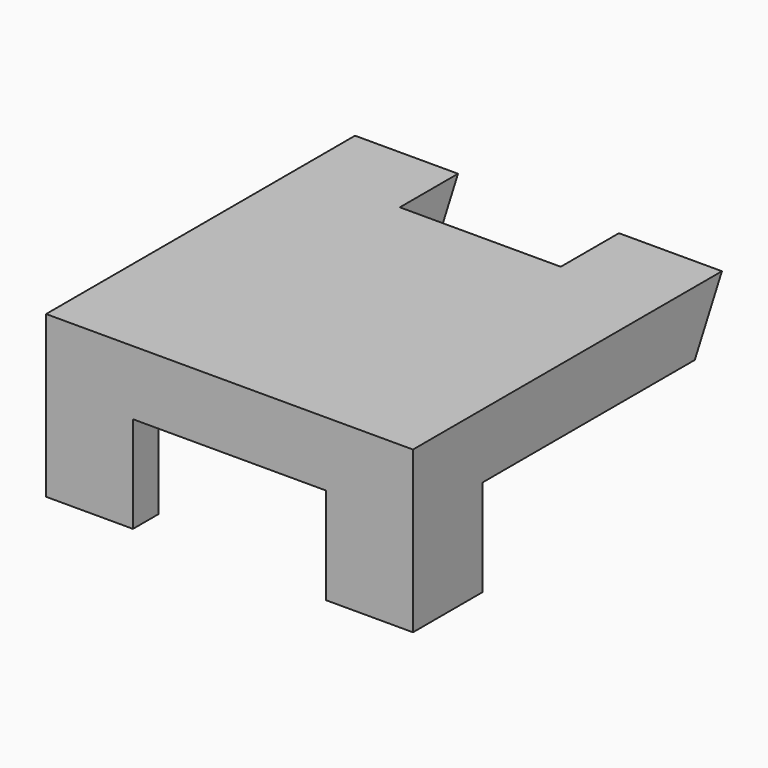
from build123d import *

# Parameters (mm, degrees)
PAD043_DEPTH        = 12.5
PAD044_DEPTH        = 57
PAD046_DEPTH        = 15
CUT_PLACEMENT_ANGLE = 180


with BuildPart() as body024:
    # Sketch100 → Pad043 (new body, symmetric)
    with BuildSketch(Plane.YZ):
        Polygon((43.43318, 10), (54.734671, 10), (60, 0), (48.698509, 0), align=None)
    extrude(amount=PAD043_DEPTH, both=True)


with BuildPart() as body024_1:
    # Body024 placement: moved
    add(body024.part.moved(Location((28.5, 0, 0))))


with BuildPart() as cut:
    # Sketch099 → Pad044 (new body)
    with BuildSketch(Plane.YZ):
        Polygon((0, 0), (60, 0), (54.734671, 10), (0, 10), align=None)
    extrude(amount=PAD044_DEPTH)

    # Sketch103 (on Face1 of Pad044) → Pad046 (join)
    with BuildSketch(Plane(origin=(0, 0, 10), x_dir=(0, -1, 0), z_dir=(0, 0, 1))):
        Polygon((0, 0), (-13.5, 0), (-13.5, 5), (-5, 5), (-5, 13.5), (0, 13.5), align=None)
        Polygon((0, 57), (-13.5, 57), (-13.5, 52), (-5, 52), (-5, 43.5), (0, 43.5), align=None)
    extrude(amount=PAD046_DEPTH)

    # Cut: cut Body024
    add(body024_1.part, mode=Mode.SUBTRACT)


with BuildPart() as cut_1:
    # Cut placement: moved
    add(cut.part.moved(Location((0, 5, 0))).rotate(Axis((0, 5, 0), (0, 1, 0)), CUT_PLACEMENT_ANGLE))


solid = cut_1.part
